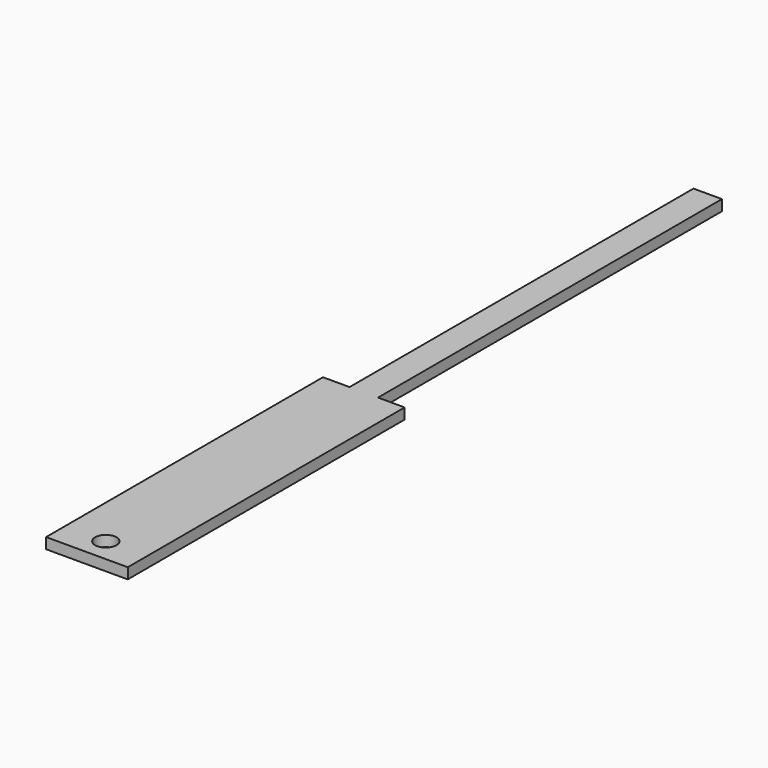
from build123d import *

# Parameters (mm, degrees)
F0_R     = 3.175
F1_DEPTH = 3.175


with BuildPart() as f1:
    # F0 (on Top) → F1 (new body)
    with BuildSketch(Plane.XY):
        Polygon((-12.065, 52.767525), (-12.065, -49.486158), (12.065, -49.486158), (12.065, 52.767525), (4.202203, 52.767525), (4.202203, 179.767525), (-4.202203, 179.767525), (-4.202203, 52.767525), align=None)
        with Locations((0, -42.501158)):
            Circle(F0_R, mode=Mode.SUBTRACT)
    extrude(amount=F1_DEPTH)


solid = f1.part
